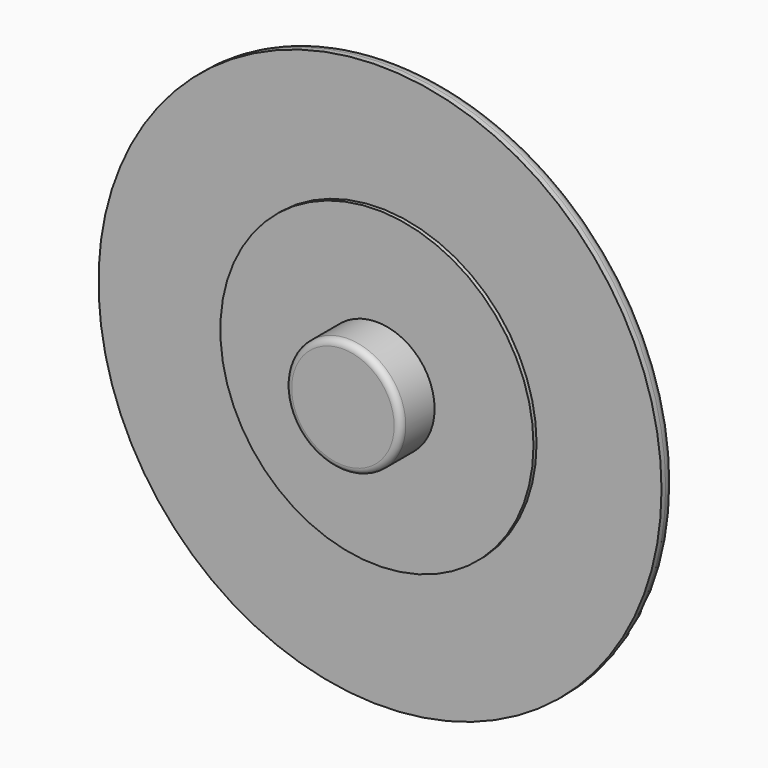
from build123d import *

# Parameters (mm, degrees)
F2_R     = 4.478894
F3_DEPTH = 5
F1_R     = 12.160504
F4_DEPTH = 1.7
F0_R     = 21.8645
F5_DEPTH = 1.4
F6_R     = 1
F7_R     = 0.5


with BuildPart() as f3:
    # F2 (on Front) → F3 (new body)
    with BuildSketch(Plane.XZ):
        Circle(F2_R)
    extrude(amount=F3_DEPTH)

    # F1 (on Front) → F4 (join)
    with BuildSketch(Plane.XZ):
        Circle(F1_R)
    extrude(amount=F4_DEPTH)

    # F0 (on Front) → F5 (join)
    with BuildSketch(Plane.XZ):
        Circle(F0_R)
    extrude(amount=F5_DEPTH)

    # F6
    f6_edges = [f3.edges().sort_by_distance(p)[0] for p in [
        (-21.8645, 0, 0),
    ]]
    fillet(f6_edges, radius=F6_R)

    # F7
    f7_edges = [f3.edges().sort_by_distance(p)[0] for p in [
        (-4.478894, -5, 0),
    ]]
    fillet(f7_edges, radius=F7_R)


solid = f3.part
